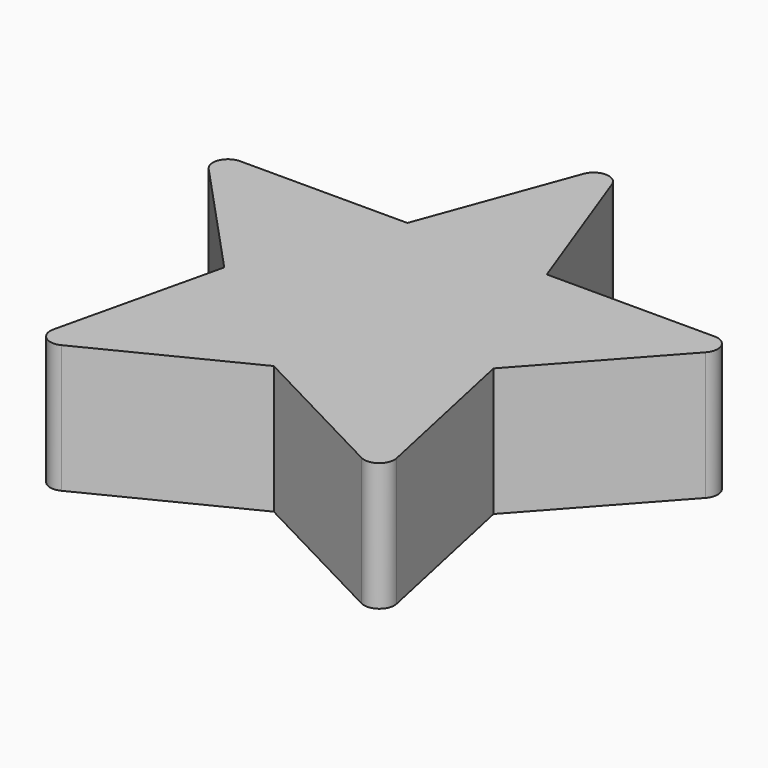
from build123d import *

# Parameters (mm, degrees)
F1_DEPTH = 32.258
F2_R     = 3.81


with BuildPart() as f1:
    # F0 (on Top) → F1 (new body)
    with BuildSketch(Plane.XY):
        Polygon((0, 47.674505), (-17.543706, 0), (-68.343706, 0), (-33.808039, -37.254902), (-45.409688, -86.712376), (0, -63.939579), (45.057892, -87.400745), (34.342859, -37.743641), (68.343706, 0), (17.543706, 0), align=None)
    extrude(amount=F1_DEPTH)

    # F2
    f2_edges = [f1.edges().sort_by_distance(p)[0] for p in [
        (45.057892, -87.400745, 16.129),
        (68.343706, 0, 16.129),
        (0, 47.674505, 16.129),
        (-45.409688, -86.712376, 16.129),
        (-68.343706, 0, 16.129),
    ]]
    fillet(f2_edges, radius=F2_R)


solid = f1.part
